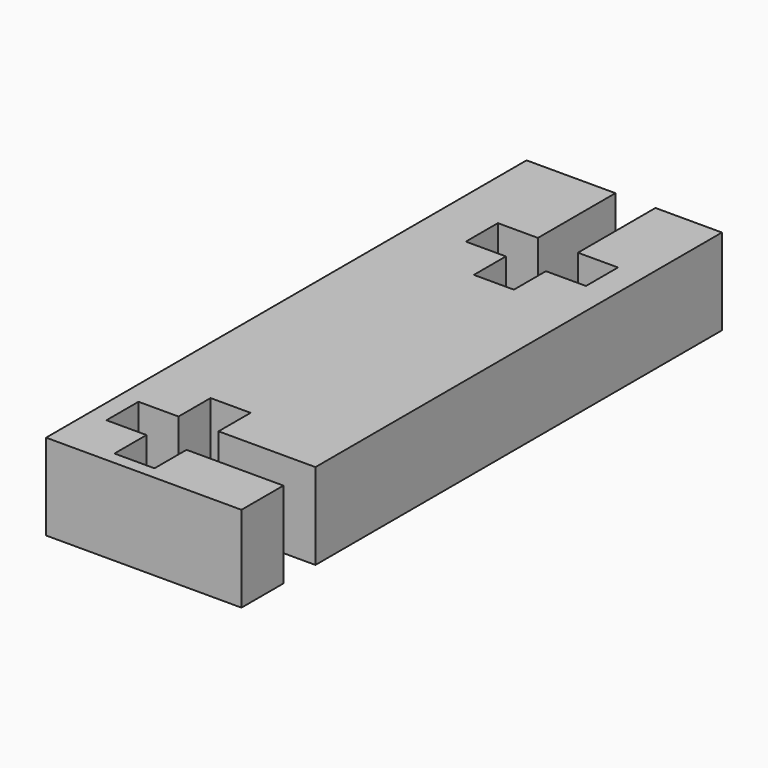
from build123d import *

# Parameters (mm, degrees)
F0_W     = 12.3952
F0_H     = 5.465724
F1_DEPTH = 38.1
F3_DEPTH = 25.4
F4_DEPTH = 25.4


with BuildPart() as f1:
    # F0 (on Front) → F1 (new body)
    with BuildSketch(Plane.XZ):
        with Locations((6.1976, 2.732862)):
            Rectangle(F0_W, F0_H)
    extrude(amount=F1_DEPTH)

    # F2 (on face) → F3 (cut)
    with BuildSketch(Plane.XY.offset(5.465724)):
        Polygon((8.179207, 0), (5.639207, 0), (5.639207, -6.1468), (3.099207, -6.1468), (3.099207, -8.6868), (5.639207, -8.6868), (5.639207, -11.2268), (8.179207, -11.2268), (8.179207, -8.6868), (10.719207, -8.6868), (10.719207, -6.1468), (8.179207, -6.1468), align=None)
    extrude(amount=-F3_DEPTH, mode=Mode.SUBTRACT)

    # F2 (on face) → F4 (cut)
    with BuildSketch(Plane.XY.offset(5.465724)):
        Polygon((12.3952, -34.77345), (12.3952, -32.23345), (6.2484, -32.23345), (6.2484, -29.69345), (3.7084, -29.69345), (3.7084, -32.23345), (1.1684, -32.23345), (1.1684, -34.77345), (3.7084, -34.77345), (3.7084, -37.31345), (6.2484, -37.31345), (6.2484, -34.77345), align=None)
    extrude(amount=-F4_DEPTH, mode=Mode.SUBTRACT)


solid = f1.part
